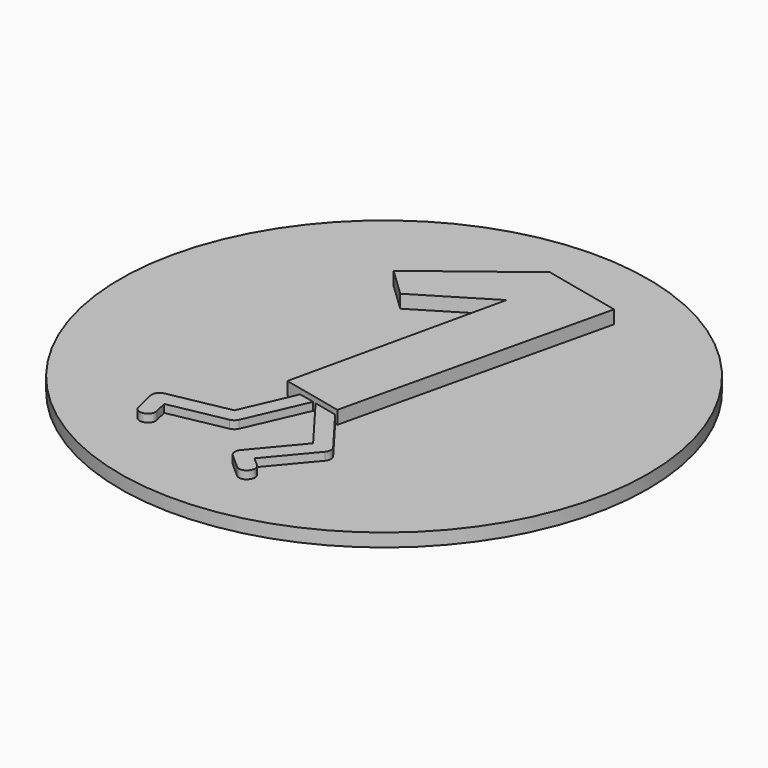
from build123d import *

# Parameters (mm, degrees)
EXTRUDE001_DEPTH = 1
EXTRUDE_DEPTH    = 0.6
CYLINDER_R       = 20
CYLINDER_DEPTH   = 1


with BuildPart() as body:
    # path4_7_6_1_6 → Extrude001 (new body)
    with BuildSketch(Plane(origin=(-0.182391, 4.245198, 1), x_dir=(0, -1, 0), z_dir=(0, 0, -1))):
        with BuildLine():
            add(Edge.make_bspline(
                [(-5.179264, 6.636207), (-10.812113, -0.699558)],
                knots=[0, 0, 32.771748, 32.771748], degree=1))
            add(Edge.make_bspline(
                [(-10.812113, -0.699558), (-9.469887, -6.636207)],
                knots=[0, 0, 21.566306, 21.566306], degree=1))
            add(Edge.make_bspline(
                [(-9.469887, -6.636207), (10.812113, -1.892574)],
                knots=[0, 0, 73.804763, 73.804763], degree=1))
            add(Edge.make_bspline(
                [(10.812113, -1.892574), (9.768057, 2.72503)],
                knots=[0, 0, 16.774602, 16.774602], degree=1))
            add(Edge.make_bspline(
                [(9.768057, 2.72503), (-6.421163, -0.923188)],
                knots=[0, 0, 58.801858, 58.801858], degree=1))
            add(Edge.make_bspline(
                [(-6.421163, -0.923188), (-3.132877, 4.49797)],
                knots=[0, 0, 22.466297, 22.466297], degree=1))
            add(Edge.make_bspline(
                [(-3.132877, 4.49797), (-5.179264, 6.636207)],
                knots=[0, 0, 10.487087, 10.487087], degree=1))
        make_face()
    extrude(amount=EXTRUDE001_DEPTH)


with BuildPart() as body_1:
    # Extrude001 placement: moved
    add(body.part.moved(Location((0, 0, 1))))


with BuildPart() as fusion:
    # path6_7_2_1_0_9 → Extrude (new body)
    with BuildSketch(Plane(origin=(-2.209018, -10.301053, 1), x_dir=(0, 1, 0), z_dir=(0, 0, 1))):
        with BuildLine():
            add(Edge.make_bspline(
                [(5.102704, -0.748152), (0.480762, 1.277563)],
                knots=[0, 0, 17.880845, 17.880845], degree=1))
            add(Edge.make_bspline(
                [(0.480762, 1.277563), (-0.416615, 5.870839)],
                knots=[0, 0, 16.583084, 16.583084], degree=1))
            add(Edge.make_bspline(
                [(-0.416615, 5.870839), (-0.481689, 6.203856), (-0.809722, 6.416714), (-1.140362, 6.340474)],
                knots=[0, 0, 0, 0, 1, 1, 1, 1], degree=3))
            add(Edge.make_bspline(
                [(-1.140362, 6.340474), (-2.696993, 5.981634)],
                knots=[0, 0, 5.660276, 5.660276], degree=1))
            add(Edge.make_bspline(
                [(-2.696993, 5.981634), (-3.498944, 5.81621), (-3.220876, 4.610113), (-2.427448, 4.812506)],
                knots=[0, 0, 0, 0, 1, 1, 1, 1], degree=3))
            add(Edge.make_bspline(
                [(-2.427448, 4.812506), (-1.475501, 5.031338)],
                knots=[0, 0, 3.461016, 3.461016], degree=1))
            add(Edge.make_bspline(
                [(-1.475501, 5.031338), (-0.63655, 0.739027)],
                knots=[0, 0, 15.496767, 15.496767], degree=1))
            add(Edge.make_bspline(
                [(-0.63655, 0.739027), (-0.598809, 0.545987), (-0.468854, 0.383697), (-0.288734, 0.30467)],
                knots=[0, 0, 0, 0, 1, 1, 1, 1], degree=3))
            add(Edge.make_bspline(
                [(-0.288734, 0.30467), (4.397148, -1.74916)],
                knots=[0, 0, 18.12834, 18.12834], degree=1))
            add(Edge.make_bspline(
                [(4.397148, -1.74916), (0.091606, -4.999124)],
                knots=[0, 0, 19.114151, 19.114151], degree=1))
            add(Edge.make_bspline(
                [(0.091606, -4.999124), (-3.255375, -2.197298)],
                knots=[0, 0, 15.466244, 15.466244], degree=1))
            add(Edge.make_bspline(
                [(-3.255375, -2.197298), (-3.503985, -1.989464), (-3.872691, -2.016549), (-4.088261, -2.258481)],
                knots=[0, 0, 0, 0, 1, 1, 1, 1], degree=3))
            add(Edge.make_bspline(
                [(-4.088261, -2.258481), (-5.046273, -3.333903)],
                knots=[0, 0, 5.103247, 5.103247], degree=1))
            add(Edge.make_bspline(
                [(-5.046273, -3.333903), (-5.57838, -3.931421), (-4.682104, -4.729582), (-4.149997, -4.132064)],
                knots=[0, 0, 0, 0, 1, 1, 1, 1], degree=3))
            add(Edge.make_bspline(
                [(-4.149997, -4.132064), (-3.57949, -3.490999)],
                knots=[0, 0, 3.040732, 3.040732], degree=1))
            add(Edge.make_bspline(
                [(-3.57949, -3.490999), (-0.312988, -6.22558)],
                knots=[0, 0, 15.094642, 15.094642], degree=1))
            add(Edge.make_bspline(
                [(-0.312988, -6.22558), (-0.098751, -6.404963), (0.210946, -6.412733), (0.43391, -6.244319)],
                knots=[0, 0, 0, 0, 1, 1, 1, 1], degree=3))
            add(Edge.make_bspline(
                [(0.43391, -6.244319), (5.343033, -2.538499)],
                knots=[0, 0, 21.794246, 21.794246], degree=1))
            add(Edge.make_bspline(
                [(5.343033, -2.538499), (5.102704, -0.748152)],
                knots=[0, 0, 6.40065, 6.40065], degree=1))
        make_face()
    extrude(amount=EXTRUDE_DEPTH)

    # Fusion: union Body
    add(body_1.part)


with BuildPart() as bit_1_coin:
    # Cylinder → Cylinder (new body)
    with BuildSketch(Plane.XY):
        Circle(CYLINDER_R)
    extrude(amount=CYLINDER_DEPTH)

    # Fusion001: union Fusion
    add(fusion.part)


solid = bit_1_coin.part
